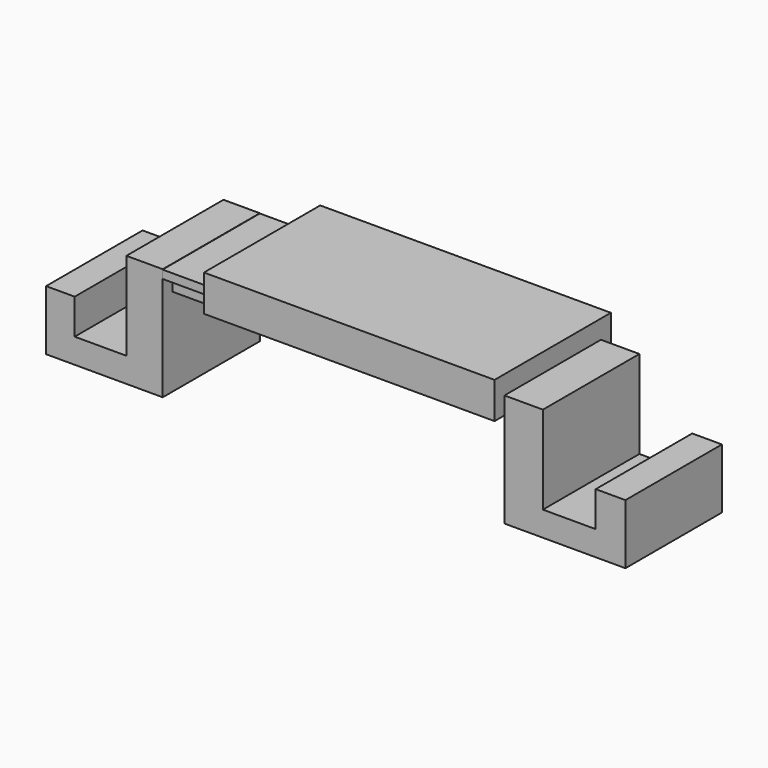
from build123d import *

# Parameters (mm, degrees)
F0_W          = 50.8
F0_H          = 25.4
F1_DEPTH      = 12.7
F2_W          = 4.4024642557
F2_H          = 2.8711722698
F2_W_2        = 0.95705688
F2_W_3        = 3.4454073757
F3_DEPTH      = 48.514
F3_DEPTH_BACK = 68.58
F5_DEPTH      = 21.082
F5_DEPTH_BACK = 21.336
F4_W          = 18.0791839957
F4_H          = 8.6549278349
F6_DEPTH      = 21.082
F6_DEPTH_BACK = 21.082
F4_W_2        = 18.4638425708


with BuildPart() as f1:
    # F0 (on Top) → F1 (new body)
    with BuildSketch(Plane.XY):
        with Locations((25.4, 12.7)):
            Rectangle(F0_W, F0_H)
        with Locations((-25.4, 12.7)):
            Rectangle(F0_W, F0_H)
        with Locations((25.4, -12.7)):
            Rectangle(F0_W, F0_H)
        with Locations((-25.4, -12.7)):
            Rectangle(F0_W, F0_H)
    extrude(amount=F1_DEPTH)

    # F2 (on Right) → F3 (join, two sides)
    with BuildSketch(Plane.YZ) as f3_sk:
        Polygon((-16.8442111462, 3.2539952081), (-16.8442111462, -2.4883493315), (17.8012680262, -2.4883493315), (17.8012680262, 3.2539952081), (16.8442111462, 3.2539952081), (16.8442111462, 6.1251674779), (-16.8442111462, 6.1251674779), align=None)
        with Locations((-19.0454432741, 4.689581343)):
            Rectangle(F2_W, F2_H)
        with Locations((17.3227395862, 4.689581343)):
            Rectangle(F2_W_2, F2_H)
        with Locations((19.5239717141, 4.689581343)):
            Rectangle(F2_W_3, F2_H)
    extrude(amount=F3_DEPTH)
    extrude(f3_sk.sketch, amount=-F3_DEPTH_BACK)


with BuildPart() as f5:
    # F4 (on Front) → F5 (new body, two sides)
    with BuildSketch(Plane.XZ) as f5_sk:
        Polygon((-68.6624273658, -33.2733914256), (-68.6624273658, 6.1546158977), (-81.3563242555, 6.1546158977), (-81.3563242555, -24.6184635907), (-81.3563242555, -33.2733914256), align=None)
    extrude(amount=F5_DEPTH)
    extrude(f5_sk.sketch, amount=-F5_DEPTH_BACK)


with BuildPart() as f6:
    # F4 (on Front) → F6 (new body, two sides)
    with BuildSketch(Plane.XZ) as f6_sk:
        Polygon((-68.6624273658, -33.2733914256), (-68.6624273658, 6.1546158977), (-81.3563242555, 6.1546158977), (-81.3563242555, -24.6184635907), (-81.3563242555, -33.2733914256), align=None)
        with Locations((-90.3959162533, -28.9459275082)):
            Rectangle(F4_W, F4_H)
        Polygon((-99.4355082512, -33.2733914256), (-99.4355082512, -24.6184635907), (-99.4355082512, -12.3092317954), (-109.4367578626, -12.3092317954), (-109.4367578626, -33.2733914256), align=None)
    extrude(amount=F6_DEPTH)
    extrude(f6_sk.sketch, amount=-F6_DEPTH_BACK)


with BuildPart() as f6b:
    # F4 (on Front) → F6, piece 2 (new body, two sides)
    with BuildSketch(Plane.XZ) as f6_2_sk:
        Polygon((64.2388015985, 6.1546158977), (50.7755801082, 6.1546158977), (50.7755801082, -33.2733914256), (64.2388015985, -33.2733914256), (64.2388015985, -24.6184635907), align=None)
        with Locations((73.4707228839, -28.9459275082)):
            Rectangle(F4_W_2, F4_H)
        Polygon((82.7026441693, -12.3092317954), (82.7026441693, -24.6184635907), (82.7026441693, -33.2733914256), (93.0885672569, -33.2733914256), (93.0885672569, -12.3092317954), align=None)
    extrude(amount=F6_DEPTH)
    extrude(f6_2_sk.sketch, amount=-F6_DEPTH_BACK)


solid = Compound([f1.part, f5.part, f6.part, f6b.part])
